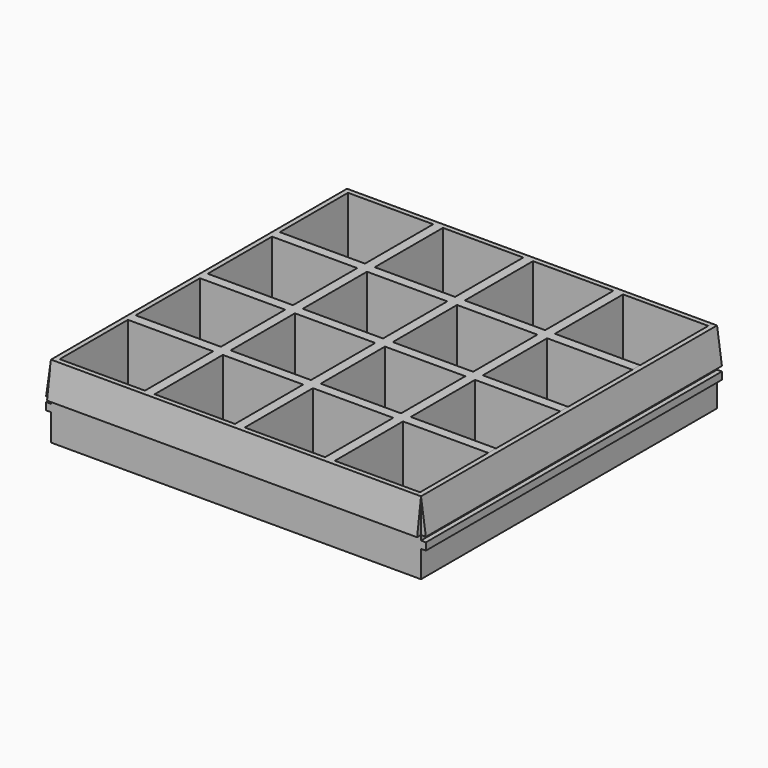
from build123d import *

# Parameters (mm, degrees)
SKETCH_W     = 76
SKETCH_H     = 76
SKETCH_W_2   = 74
SKETCH_H_2   = 74
PAD_DEPTH    = 15
PAD001_DEPTH = 15
PAD002_DEPTH = 76
PAD004_DEPTH = 76


with BuildPart() as part:
    # Sketch → Pad (new body)
    with BuildSketch(Plane.XY):
        Rectangle(SKETCH_W, SKETCH_H)
        Rectangle(SKETCH_W_2, SKETCH_H_2, mode=Mode.SUBTRACT)
    extrude(amount=PAD_DEPTH)

    # Sketch001 → Pad001 (join)
    with BuildSketch(Plane.XY):
        Polygon((-17.5, 37), (-17.5, 12.333333), (-17.5, -37), (-19.5, -37), (-19.5, 12.333333), (-19.5, 37), align=None)
        Polygon((-37, 19.5), (-12.333333, 19.5), (37, 19.5), (37, 17.5), (-12.333333, 17.5), (-37, 17.5), align=None)
        Polygon((19.5, 37), (19.5, 12.333333), (19.5, -37), (17.5, -37), (17.5, 12.333333), (17.5, 37), align=None)
        Polygon((-37, -17.5), (-12.333333, -17.5), (37, -17.5), (37, -19.5), (-12.333333, -19.5), (-37, -19.5), align=None)
        Polygon((-1, -37), (-1, -12.333333), (-1, 37), (1, 37), (1, -12.333333), (1, -37), align=None)
        Polygon((-37, 1), (-12.333333, 1), (37, 1), (37, -1), (-12.333333, -1), (-37, -1), align=None)
    extrude(amount=PAD001_DEPTH)

    # Sketch002 (on Face1 of Pad001) → Pad002 (join)
    with BuildSketch(Plane.XZ.offset(38)):
        Polygon((-39, 8), (-38, 8), (-38, 7), (-39, 7), (-39, 5.5), (-38, 5.5), (-38, 0), (-37, 0), (-37, 15), (-38, 15), align=None)
        Polygon((38, 8.000002), (39, 8.000002), (38, 15.000002), (37, 15), (37, 0), (38, 0), (38, 5.500002), (39, 5.500002), (39, 7.000002), (38, 7.000002), align=None)
    extrude(amount=-PAD002_DEPTH)

    # Sketch004 (on Face4 of Pad) → Pad004 (join)
    with BuildSketch(Plane(origin=(-38, 0, 0), x_dir=(0, -1, 0), z_dir=(-1, 0, 0))):
        Polygon((38, 15), (37, 15), (37, 8), (39, 8), align=None)
    extrude(amount=-PAD004_DEPTH)


solid = part.part
